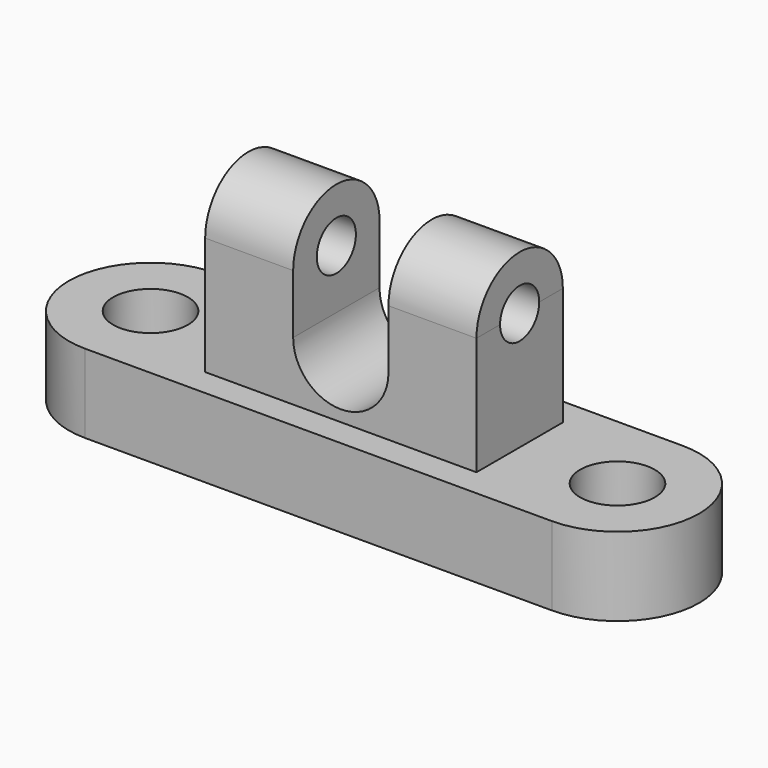
from build123d import *

# Parameters (mm, degrees)
F0_R      = 12.072226
F1_DEPTH  = 25.4
F2_W      = 87.608718
F2_H      = 34.864694
F3_DEPTH  = 38.1
F5_DEPTH  = 95.504
F6_R      = 7.895989
F7_DEPTH  = 137.16
F9_DEPTH  = 43.18
F10_W     = 14.878865
F10_H     = 58.846174
F11_DEPTH = 63.246


with BuildPart() as f1:
    # F0 (on Top) → F1 (new body)
    with BuildSketch(Plane.XY):
        with BuildLine():
            ThreePointArc((75.391173, -26.372012), (101.763185, 0), (75.391173, 26.372012))
            Line((75.391173, 26.372012), (-75.391173, 26.372012))
            ThreePointArc((-75.391173, 26.372012), (-101.763185, 0), (-75.391173, -26.372012))
            Line((-75.391173, -26.372012), (75.391173, -26.372012))
        make_face()
        with Locations((-75.391173, 0)):
            Circle(F0_R, mode=Mode.SUBTRACT)
        with Locations((75.391173, 0)):
            Circle(F0_R, mode=Mode.SUBTRACT)
    extrude(amount=F1_DEPTH)

    # F2 (on face) → F3 (join)
    with BuildSketch(Plane.XY.offset(25.4)):
        Rectangle(F2_W, F2_H)
    extrude(amount=F3_DEPTH)

    # F4 (on face) → F5 (join)
    with BuildSketch(Plane(origin=(-43.804359, 0, 0), x_dir=(0, -1, 0), z_dir=(-1, 0, 0))):
        with BuildLine():
            Line((-17.432347, 63.5), (17.432347, 63.5))
            ThreePointArc((17.432347, 63.5), (0, 80.932347), (-17.432347, 63.5))
        make_face()
    extrude(amount=-F5_DEPTH)

    # F6 (on face) → F7 (cut)
    with BuildSketch(Plane(origin=(-43.804359, 0, 0), x_dir=(0, -1, 0), z_dir=(-1, 0, 0))):
        with Locations((0, 63.5)):
            Circle(F6_R)
    extrude(amount=-F7_DEPTH, mode=Mode.SUBTRACT)

    # F8 (on face) → F9 (cut)
    with BuildSketch(Plane.XZ.offset(17.432347)):
        with BuildLine():
            Line((-15.387698, 88.349707), (-15.387698, 44.45))
            ThreePointArc((-15.387698, 44.45), (0, 29.062302), (15.387698, 44.45))
            Line((15.387698, 44.45), (15.387698, 88.349707))
            Line((15.387698, 88.349707), (-15.387698, 88.349707))
        make_face()
    extrude(amount=-F9_DEPTH, mode=Mode.SUBTRACT)

    # F10 (on face) → F11 (cut)
    with BuildSketch(Plane.XZ.offset(17.432347)):
        with Locations((51.243792, 54.823087)):
            Rectangle(F10_W, F10_H)
    extrude(amount=-F11_DEPTH, mode=Mode.SUBTRACT)


solid = f1.part
